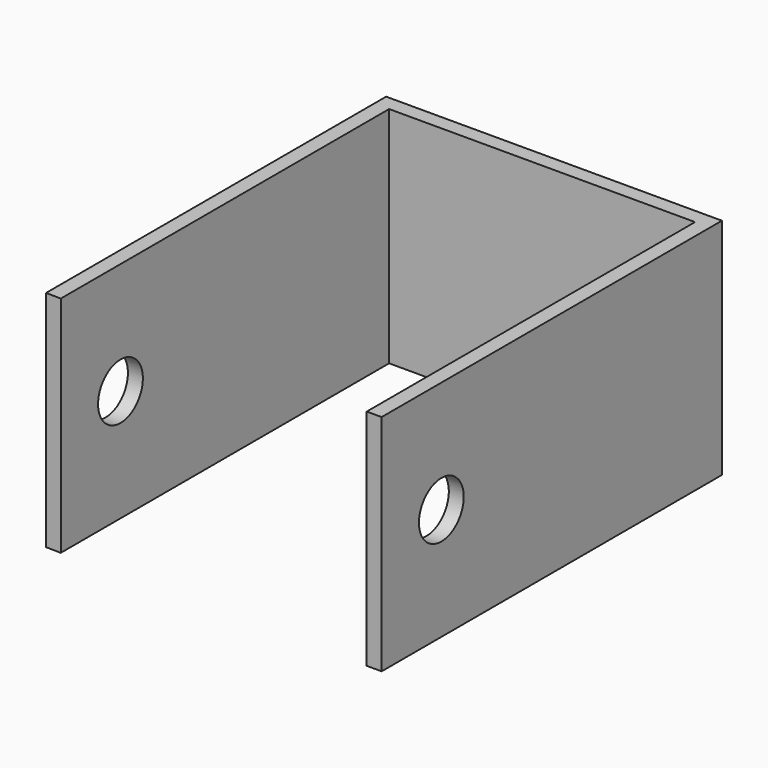
from build123d import *

# Parameters (mm, degrees)
F1_DEPTH = 30
F3_D     = 7.5


with BuildPart() as f1:
    # F0 (on Top) → F1 (new body)
    with BuildSketch(Plane.XY):
        Polygon((-24.229423, -33.716241), (-24.229423, 21.283759), (16.770577, 21.283759), (16.770577, -33.716241), (18.770577, -33.716241), (18.770577, 23.283759), (-26.229423, 23.283759), (-26.229423, -33.677656), align=None)
    extrude(amount=F1_DEPTH)

    # F3 (through all)
    with Locations(Plane.YZ.offset(18.770577)):
        with Locations((-23.716241, 15)):
            Hole(F3_D / 2)


solid = f1.part
